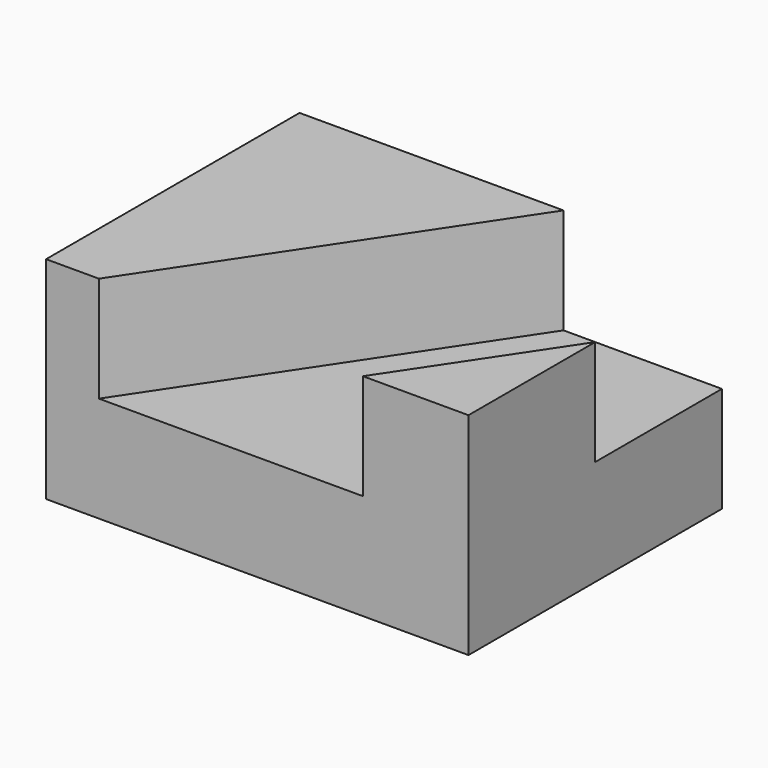
from build123d import *

# Parameters (mm, degrees)
F0_W     = 50.8
F0_H     = 38.1
F1_DEPTH = 12.7
F3_DEPTH = 12.7
F5_DEPTH = 12.7


with BuildPart() as f1:
    # F0 (on Top) → F1 (new body)
    with BuildSketch(Plane.XY):
        with Locations((-3.212135, 24.588214)):
            Rectangle(F0_W, F0_H)
    extrude(amount=F1_DEPTH)

    # F2 (on face) → F3 (join)
    with BuildSketch(Plane.XY.offset(12.7)):
        Polygon((-22.262135, 5.538214), (3.137865, 43.638214), (-28.612135, 43.638214), (-28.612135, 5.538214), align=None)
    extrude(amount=F3_DEPTH)

    # F4 (on face) → F5 (join)
    with BuildSketch(Plane.XY.offset(12.7)):
        Polygon((22.187865, 5.538214), (22.187865, 24.588214), (9.487865, 5.538214), align=None)
    extrude(amount=F5_DEPTH)


solid = f1.part
